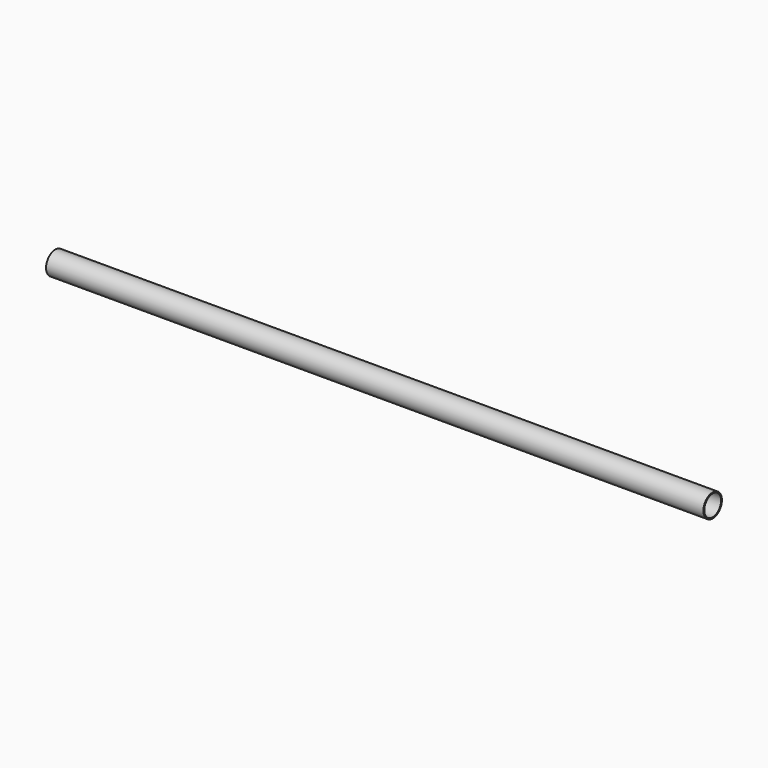
from build123d import *

# Parameters (mm, degrees)
F0_R     = 21.1
F0_R_2   = 19.1
F1_DEPTH = 600
F4_D     = 6.5
F4_DEPTH = 10


with BuildPart() as f1:
    # F0 (on Right) → F1 (new body, symmetric)
    with BuildSketch(Plane.YZ):
        Circle(F0_R)
        Circle(F0_R_2, mode=Mode.SUBTRACT)
    extrude(amount=F1_DEPTH, both=True)

    # F4
    with Locations(Plane(origin=(0, 0, -25), x_dir=(1, 0, 0), z_dir=(0, 0, -1))):
        with Locations((-500, 0), (-457, 0), (457, 0), (500, 0)):
            Hole(F4_D / 2, depth=F4_DEPTH)


solid = f1.part
